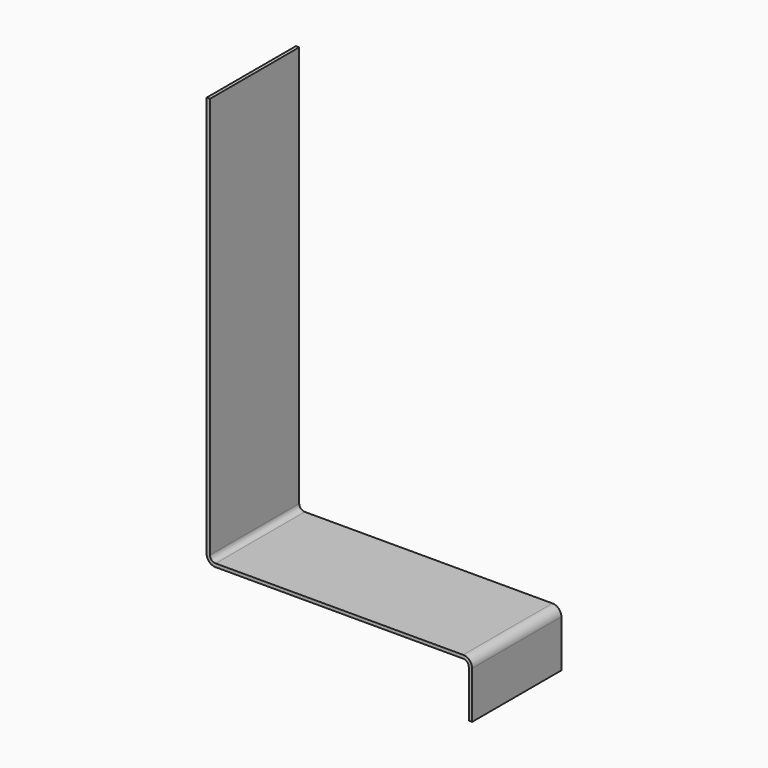
from build123d import *

# Parameters (mm, degrees)
F1_DEPTH = 100


with BuildPart() as f1:
    # F0 (on Front) → F1 (new body)
    with BuildSketch(Plane.XZ):
        with BuildLine():
            ThreePointArc((0, -5), (-3.535534, -3.535534), (-5, 0))
            Line((-5, 0), (-5, 360))
            Line((-5, 360), (-8, 360))
            Line((-8, 360), (-8, 0))
            ThreePointArc((-8, 0), (-5.656854, -5.656854), (0, -8))
            Line((0, -8), (222, -8))
            ThreePointArc((222, -8), (225.535534, -9.464466), (227, -13))
            Line((227, -13), (227, -55.321693))
            Line((227, -55.321693), (230, -55.321693))
            Line((230, -55.321693), (230, -13))
            ThreePointArc((230, -13), (227.656854, -7.343146), (222, -5))
            Line((222, -5), (0, -5))
        make_face()
    extrude(amount=F1_DEPTH)


solid = f1.part
